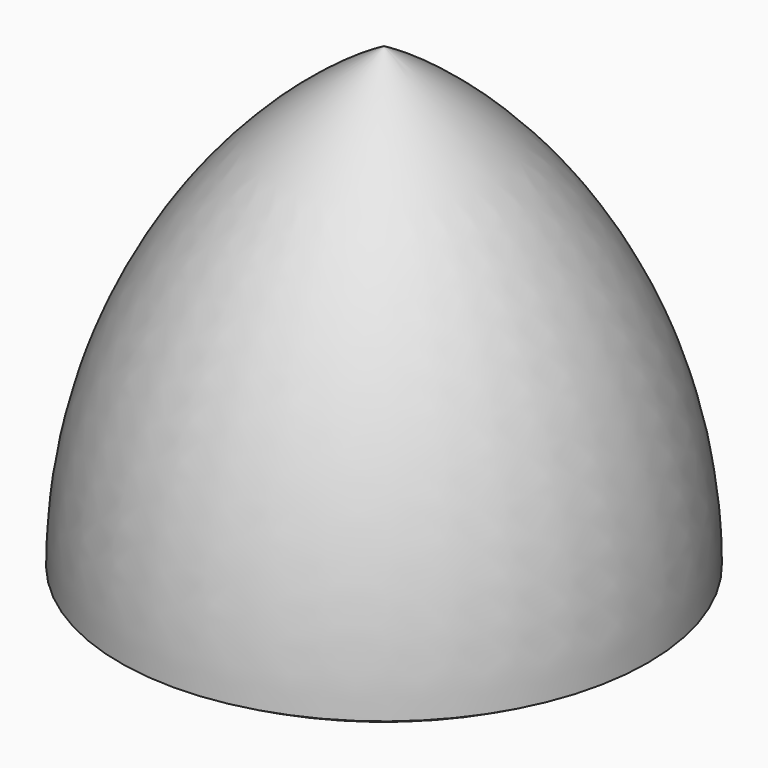
from build123d import *


with BuildPart() as f1:
    # F0 (on Front) → F1 (revolve)
    with BuildSketch(Plane.XZ):
        with BuildLine():
            Line((0, 50), (0, -7.735027))
            ThreePointArc((0, -7.735027), (14.942925, -5.767754), (28.867513, 0))
            ThreePointArc((28.867513, 0), (21.132487, 28.867513), (0, 50))
        make_face()
    revolve(axis=Axis((0, 0, 21.132487), (0, 0, -1)))


solid = f1.part
